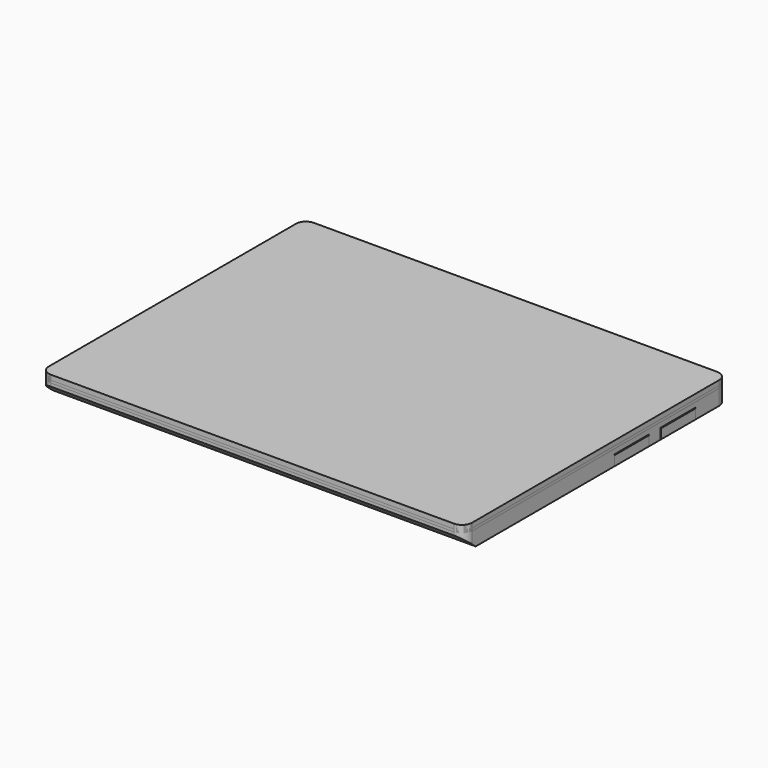
from build123d import *

# Parameters (mm, degrees)
SKETCH_W                = 296
SKETCH_H                = 230
PAD_DEPTH               = 15.88
FILLET_R                = 7
POCKET_DEPTH            = 296
SKETCH003_W             = 27.1
SKETCH003_H             = 7.18
SKETCH004_W             = 23.7
SKETCH004_H             = 3.78
SKETCH002_W             = 224.66
SKETCH002_H             = 7.18
SKETCH005_W             = 221.26
SKETCH005_H             = 3.78
SKETCH006_W             = 27.1
SKETCH006_H             = 7.18
SKETCH007_W             = 23.7
SKETCH007_H             = 3.78
SKETCH010_W             = 0.89
SKETCH010_H             = 12.46
POCKET001_DEPTH         = 3
LINEARPATTERN_COUNT     = 70
LINEARPATTERN_PITCH     = 2.405797
SKETCH012_W             = 31.82
SKETCH012_H             = 30.33
POCKET002_DEPTH         = 7.4
SKETCH021_W             = 12.83
SKETCH021_H             = 6.25
POCKET007_DEPTH         = 6.8
SKETCH022_W             = 11.49
SKETCH022_H             = 4.91
PAD007_DEPTH            = 7.31
SKETCH008_W             = 296
SKETCH008_H             = 230
PAD001_DEPTH            = 3.35
FILLET001_R             = 7
SKETCH009_W             = 296
SKETCH009_H             = 230
PAD002_DEPTH            = 1.78
FILLET002_R             = 7
SKETCH013_W             = 30
SKETCH013_H             = 32
PAD003_DEPTH            = 6.8
SKETCH014_W             = 30
SKETCH014_H             = 3.5
POCKET003_DEPTH         = 0.6
BODY003_ROLL_ANGLE      = 180
BODY003_PLACEMENT_ANGLE = 90
SKETCH015_W             = 30
SKETCH015_H             = 32
PAD004_DEPTH            = 6.8
SKETCH016_W             = 30
SKETCH016_H             = 3.5
POCKET004_DEPTH         = 0.6
BODY004_ROLL_ANGLE      = 180
BODY004_PLACEMENT_ANGLE = 90
SKETCH017_W             = 30
SKETCH017_H             = 32
PAD005_DEPTH            = 6.8
SKETCH018_W             = 30
SKETCH018_H             = 3.5
POCKET005_DEPTH         = 0.6
BODY005_ROLL_ANGLE      = 180
BODY005_PLACEMENT_ANGLE = -90
SKETCH019_W             = 30
SKETCH019_H             = 32
PAD006_DEPTH            = 6.8
SKETCH020_W             = 30
SKETCH020_H             = 3.5
POCKET006_DEPTH         = 0.6
BODY006_ROLL_ANGLE      = 180
BODY006_PLACEMENT_ANGLE = -90


with BuildPart() as body:
    # Sketch → Pad (new body)
    with BuildSketch(Plane.XY):
        with Locations((148, 115)):
            Rectangle(SKETCH_W, SKETCH_H)
    extrude(amount=PAD_DEPTH)

    # Fillet
    fillet_edges = [body.edges().sort_by_distance(p)[0] for p in [
        (296, 230, 7.94),
        (296, 0, 7.94),
        (0, 0, 7.94),
        (0, 230, 7.94),
    ]]
    fillet(fillet_edges, radius=FILLET_R)

    # Sketch001 (on Face6 of Fillet) → Pocket (cut)
    with BuildSketch(Plane(origin=(0, 0, 0), x_dir=(0, -1, 0), z_dir=(-1, 0, 0))):
        Polygon((0, 0), (-10.11, 0), (0, 8.53), align=None)
    extrude(amount=-POCKET_DEPTH, mode=Mode.SUBTRACT)

    # Sketch003 (on Face8 of Pocket) → AdditiveLoft section 0
    with BuildSketch(Plane(origin=(0, 0, 0), x_dir=(1, 0, 0), z_dir=(0, 0, -1))):
        with Locations((33.36, -22.42)):
            Rectangle(SKETCH003_W, SKETCH003_H)
    # Sketch004 (on Face8 of Pocket) → AdditiveLoft section 1
    with BuildSketch(Plane(origin=(0, 0, -2.21), x_dir=(1, 0, 0), z_dir=(0, 0, -1))):
        with Locations((33.36, -22.42)):
            Rectangle(SKETCH004_W, SKETCH004_H)
    loft()

    # Sketch002 (on Face8 of Pocket) → AdditiveLoft001 section 0
    with BuildSketch(Plane(origin=(0, 0, 0), x_dir=(1, 0, 0), z_dir=(0, 0, -1))):
        with Locations((148, -198.67)):
            Rectangle(SKETCH002_W, SKETCH002_H)
    # Sketch005 (on Face8 of AdditiveLoft) → AdditiveLoft001 section 1
    with BuildSketch(Plane(origin=(0, 0, -2.95), x_dir=(1, 0, 0), z_dir=(0, 0, -1))):
        with Locations((148, -198.67)):
            Rectangle(SKETCH005_W, SKETCH005_H)
    loft()

    # Sketch006 (on Face8 of AdditiveLoft001) → AdditiveLoft002 section 0
    with BuildSketch(Plane(origin=(0, 0, 0), x_dir=(1, 0, 0), z_dir=(0, 0, -1))):
        with Locations((262.64, -22.42)):
            Rectangle(SKETCH006_W, SKETCH006_H)
    # Sketch007 (on Face8 of AdditiveLoft001) → AdditiveLoft002 section 1
    with BuildSketch(Plane(origin=(0, 0, -2.95), x_dir=(1, 0, 0), z_dir=(0, 0, -1))):
        with Locations((262.64, -22.42)):
            Rectangle(SKETCH007_W, SKETCH007_H)
    loft()

    # Sketch010 (on Face8 of AdditiveLoft002) → Pocket001 (cut)
    with BuildSketch(Plane(origin=(0, 0, 0), x_dir=(1, 0, 0), z_dir=(0, 0, -1))):
        with Locations((65.005, -159.85)):
            Rectangle(SKETCH010_W, SKETCH010_H)
        with Locations((65.005, -174.31)):
            Rectangle(SKETCH010_W, SKETCH010_H)
    pocket001 = extrude(amount=-POCKET001_DEPTH, mode=Mode.SUBTRACT)

    # LinearPattern: Pocket001 ×70
    with Locations(*[(i * LINEARPATTERN_PITCH, 0, 0) for i in range(1, LINEARPATTERN_COUNT)]):
        add(pocket001, mode=Mode.SUBTRACT)

    # Sketch012 (on Face8 of LinearPattern) → Pocket002 (cut)
    with BuildSketch(Plane(origin=(0, 0, 0), x_dir=(1, 0, 0), z_dir=(0, 0, -1))):
        with Locations((15.91, -187.115)):
            Rectangle(SKETCH012_W, SKETCH012_H)
        with Locations((15.91, -146.565)):
            Rectangle(SKETCH012_W, SKETCH012_H)
        with Locations((280.09, -187.115)):
            Rectangle(SKETCH012_W, SKETCH012_H)
        with Locations((280.09, -146.565)):
            Rectangle(SKETCH012_W, SKETCH012_H)
    extrude(amount=-POCKET002_DEPTH, mode=Mode.SUBTRACT)

    # Sketch021 (on Face8 of Pocket002) → Pocket007 (cut)
    with BuildSketch(Plane(origin=(0, 0, 0), x_dir=(1, 0, 0), z_dir=(0, 0, -1))):
        with Locations((23.765, -166.84)):
            Rectangle(SKETCH021_W, SKETCH021_H)
        with Locations((272.235, -166.84)):
            Rectangle(SKETCH021_W, SKETCH021_H)
    extrude(amount=-POCKET007_DEPTH, mode=Mode.SUBTRACT)

    # Sketch022 (on Face610 of Pocket007) → Pad007 (join)
    with BuildSketch(Plane(origin=(0, 0, 6.8), x_dir=(1, 0, 0), z_dir=(0, 0, -1))):
        with Locations((23.765, -166.84)):
            Rectangle(SKETCH022_W, SKETCH022_H)
        with Locations((272.235, -166.84)):
            Rectangle(SKETCH022_W, SKETCH022_H)
    extrude(amount=PAD007_DEPTH)


with BuildPart() as lid:
    # Sketch008 → Pad001 (new body)
    with BuildSketch(Plane.XY.offset(15.88)):
        with Locations((148, 115)):
            Rectangle(SKETCH008_W, SKETCH008_H)
    extrude(amount=-PAD001_DEPTH)

    # Fillet001
    fillet001_edges = [lid.edges().sort_by_distance(p)[0] for p in [
        (296, 230, 14.205),
        (0, 230, 14.205),
        (0, 0, 14.205),
        (296, 0, 14.205),
    ]]
    fillet(fillet001_edges, radius=FILLET001_R)


with BuildPart() as bezel:
    # Sketch009 → Pad002 (new body)
    with BuildSketch(Plane.XY.offset(12.53)):
        with Locations((148, 115)):
            Rectangle(SKETCH009_W, SKETCH009_H)
    extrude(amount=-PAD002_DEPTH)

    # Fillet002
    fillet002_edges = [bezel.edges().sort_by_distance(p)[0] for p in [
        (296, 230, 11.64),
        (0, 230, 11.64),
        (0, 0, 11.64),
        (296, 0, 11.64),
    ]]
    fillet(fillet002_edges, radius=FILLET002_R)


with BuildPart() as body003:
    # Sketch013 → Pad003 (new body)
    with BuildSketch(Plane.XY):
        with Locations((15, 16)):
            Rectangle(SKETCH013_W, SKETCH013_H)
    extrude(amount=PAD003_DEPTH)

    # Sketch014 (on Face6 of Pad003) → Pocket003 (cut)
    with BuildSketch(Plane.XY.offset(6.8)):
        with Locations((15, 30.25)):
            Rectangle(SKETCH014_W, SKETCH014_H)
    extrude(amount=-POCKET003_DEPTH, mode=Mode.SUBTRACT)


with BuildPart() as body003_1:
    # Body003 roll: moved
    add(body003.part.rotate(Axis((0, 0, 0), (1, 0, 0)), BODY003_ROLL_ANGLE))


with BuildPart() as body003_2:
    # Body003 placement: moved
    add(body003_1.part.moved(Location((0, 172.1, 6.8))).rotate(Axis((0, 172.1, 6.8), (0, 0, 1)), BODY003_PLACEMENT_ANGLE))


with BuildPart() as body004:
    # Sketch015 → Pad004 (new body)
    with BuildSketch(Plane.XY):
        with Locations((15, 16)):
            Rectangle(SKETCH015_W, SKETCH015_H)
    extrude(amount=PAD004_DEPTH)

    # Sketch016 (on Face6 of Pad004) → Pocket004 (cut)
    with BuildSketch(Plane.XY.offset(6.8)):
        with Locations((15, 30.25)):
            Rectangle(SKETCH016_W, SKETCH016_H)
    extrude(amount=-POCKET004_DEPTH, mode=Mode.SUBTRACT)


with BuildPart() as body004_1:
    # Body004 roll: moved
    add(body004.part.rotate(Axis((0, 0, 0), (1, 0, 0)), BODY004_ROLL_ANGLE))


with BuildPart() as body004_2:
    # Body004 placement: moved
    add(body004_1.part.moved(Location((0, 131.55, 6.8))).rotate(Axis((0, 131.55, 6.8), (0, 0, 1)), BODY004_PLACEMENT_ANGLE))


with BuildPart() as body005:
    # Sketch017 → Pad005 (new body)
    with BuildSketch(Plane.XY):
        with Locations((15, 16)):
            Rectangle(SKETCH017_W, SKETCH017_H)
    extrude(amount=PAD005_DEPTH)

    # Sketch018 (on Face6 of Pad005) → Pocket005 (cut)
    with BuildSketch(Plane.XY.offset(6.8)):
        with Locations((15, 30.25)):
            Rectangle(SKETCH018_W, SKETCH018_H)
    extrude(amount=-POCKET005_DEPTH, mode=Mode.SUBTRACT)


with BuildPart() as body005_1:
    # Body005 roll: moved
    add(body005.part.rotate(Axis((0, 0, 0), (1, 0, 0)), BODY005_ROLL_ANGLE))


with BuildPart() as body005_2:
    # Body005 placement: moved
    add(body005_1.part.moved(Location((296, 202.14, 6.8))).rotate(Axis((296, 202.14, 6.8), (0, 0, 1)), BODY005_PLACEMENT_ANGLE))


with BuildPart() as body006:
    # Sketch019 → Pad006 (new body)
    with BuildSketch(Plane.XY):
        with Locations((15, 16)):
            Rectangle(SKETCH019_W, SKETCH019_H)
    extrude(amount=PAD006_DEPTH)

    # Sketch020 (on Face6 of Pad006) → Pocket006 (cut)
    with BuildSketch(Plane.XY.offset(6.8)):
        with Locations((15, 30.25)):
            Rectangle(SKETCH020_W, SKETCH020_H)
    extrude(amount=-POCKET006_DEPTH, mode=Mode.SUBTRACT)


with BuildPart() as body006_1:
    # Body006 roll: moved
    add(body006.part.rotate(Axis((0, 0, 0), (1, 0, 0)), BODY006_ROLL_ANGLE))


with BuildPart() as body006_2:
    # Body006 placement: moved
    add(body006_1.part.moved(Location((296, 161.55, 6.8))).rotate(Axis((296, 161.55, 6.8), (0, 0, 1)), BODY006_PLACEMENT_ANGLE))


solid = Compound([body.part, lid.part, bezel.part, body003_2.part, body004_2.part, body005_2.part, body006_2.part])
